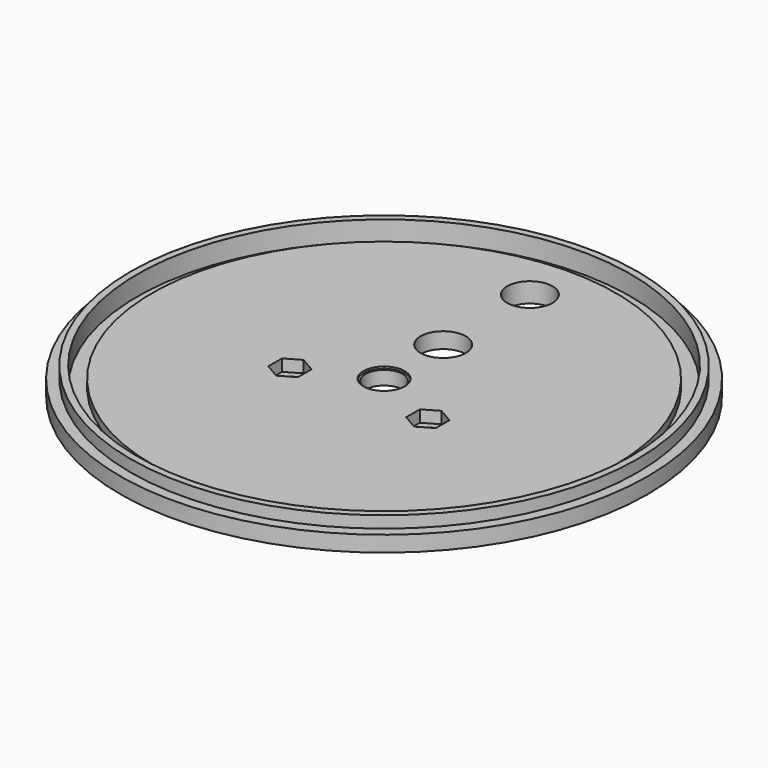
from build123d import *

# Parameters (mm, degrees)
F0_R      = 67
F1_DEPTH  = 2.5
F2_R      = 64.375
F2_R_2    = 62.625
F3_DEPTH  = 3
F2_R_3    = 58.875
F4_DEPTH  = 2
F5_R      = 4.75
F5_R_2    = 5.75
F5_R_3    = 2.1
F6_DEPTH  = 5.001
F7_R      = 5.25
F7_R_2    = 4.75
F8_DEPTH  = 0.5
F7_R_3    = 2.1
F9_DEPTH  = 3
F10_DEPTH = 3
F11_R     = 67
F11_R_2   = 6.25
F11_R_3   = 2.1
F11_R_4   = 4.75
F11_R_5   = 5.75
F12_DEPTH = 1


with BuildPart() as f1:
    # F0 (on Top) → F1 (new body, symmetric)
    with BuildSketch(Plane.XY):
        Circle(F0_R)
    extrude(amount=F1_DEPTH, both=True)

    # F2 (on face) → F3 (join)
    with BuildSketch(Plane.XY.offset(2.5)):
        Circle(F2_R)
        Circle(F2_R_2, mode=Mode.SUBTRACT)
    extrude(amount=F3_DEPTH)

    # F2 (on face) → F4 (cut)
    with BuildSketch(Plane.XY.offset(2.5)):
        Circle(F2_R_2)
        Circle(F2_R_3, mode=Mode.SUBTRACT)
    extrude(amount=-F4_DEPTH, mode=Mode.SUBTRACT)

    # F5 (on face) → F6 (cut, through all)
    with BuildSketch(Plane.XY.offset(2.5)):
        Circle(F5_R)
        with Locations((0, 18.75)):
            Circle(F5_R_2)
        with Locations((0, 46.25)):
            Circle(F5_R_2)
        with Locations((17.5, -8)):
            Circle(F5_R_3)
        with Locations((-17.5, -8)):
            Circle(F5_R_3)
    extrude(amount=-F6_DEPTH, mode=Mode.SUBTRACT)

    # F7 (on face) → F8 (cut)
    with BuildSketch(Plane.XY.offset(2.5)):
        Circle(F7_R)
        Circle(F7_R_2, mode=Mode.SUBTRACT)
    extrude(amount=-F8_DEPTH, mode=Mode.SUBTRACT)

    # F7 (on face) → F9 (cut)
    with BuildSketch(Plane.XY.offset(2.5)):
        Polygon((-13.75, -10.1650635095), (-13.75, -5.8349364905), (-17.5, -3.6698729811), (-21.25, -5.8349364905), (-21.25, -10.1650635095), (-17.5, -12.3301270189), align=None)
        with Locations((-17.5, -8)):
            Circle(F7_R_3, mode=Mode.SUBTRACT)
        with Locations((-17.5, -8)):
            Circle(F7_R_3)
    extrude(amount=-F9_DEPTH, mode=Mode.SUBTRACT)

    # F7 (on face) → F10 (cut)
    with BuildSketch(Plane.XY.offset(2.5)):
        Polygon((17.5, -12.3301270189), (21.25, -10.1650635095), (21.25, -5.8349364905), (17.5, -3.6698729811), (13.75, -5.8349364905), (13.75, -10.1650635095), align=None)
        with Locations((17.5, -8)):
            Circle(F7_R_3, mode=Mode.SUBTRACT)
        with Locations((17.5, -8)):
            Circle(F7_R_3)
    extrude(amount=-F10_DEPTH, mode=Mode.SUBTRACT)

    # F11 (on face) → F12 (cut)
    with BuildSketch(Plane(origin=(0, 0, -2.5), x_dir=(1, 0, 0), z_dir=(0, 0, -1))):
        Circle(F11_R)
        with Locations((0, -46.25)):
            Circle(F11_R_2, mode=Mode.SUBTRACT)
        with Locations((0, -18.75)):
            Circle(F11_R_2, mode=Mode.SUBTRACT)
        with Locations((-17.5, 8)):
            Circle(F11_R_3, mode=Mode.SUBTRACT)
        Circle(F11_R_4, mode=Mode.SUBTRACT)
        with Locations((17.5, 8)):
            Circle(F11_R_3, mode=Mode.SUBTRACT)
        with Locations((0, -18.75)):
            Circle(F11_R_2)
        with Locations((0, -18.75)):
            Circle(F11_R_5, mode=Mode.SUBTRACT)
    extrude(amount=-F12_DEPTH, mode=Mode.SUBTRACT)


solid = f1.part
